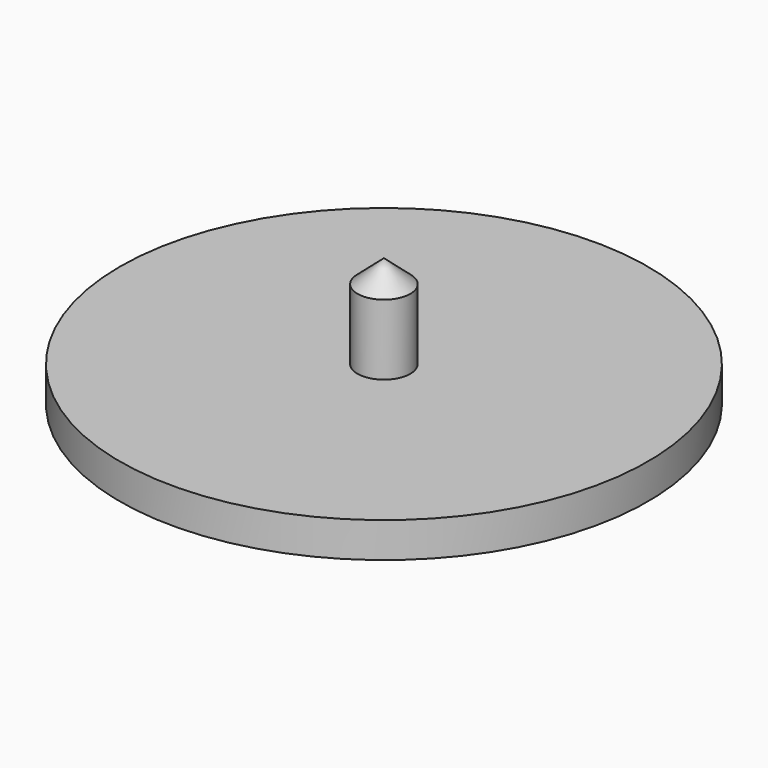
from build123d import *


with BuildPart() as f1:
    # F0 (on Front) → F1 (revolve)
    with BuildSketch(Plane.XZ):
        Polygon((-1.905, 6.35), (-1.905, 1.27), (0, 1.27), (0, 8.001), align=None)
        Polygon((-1.905, 1.27), (-19.05, 1.27), (-19.05, -1.27), (0, -1.27), (0, 1.27), align=None)
    revolve(axis=Axis((0, 0, 0.954743), (0, 0, -1)))


solid = f1.part
